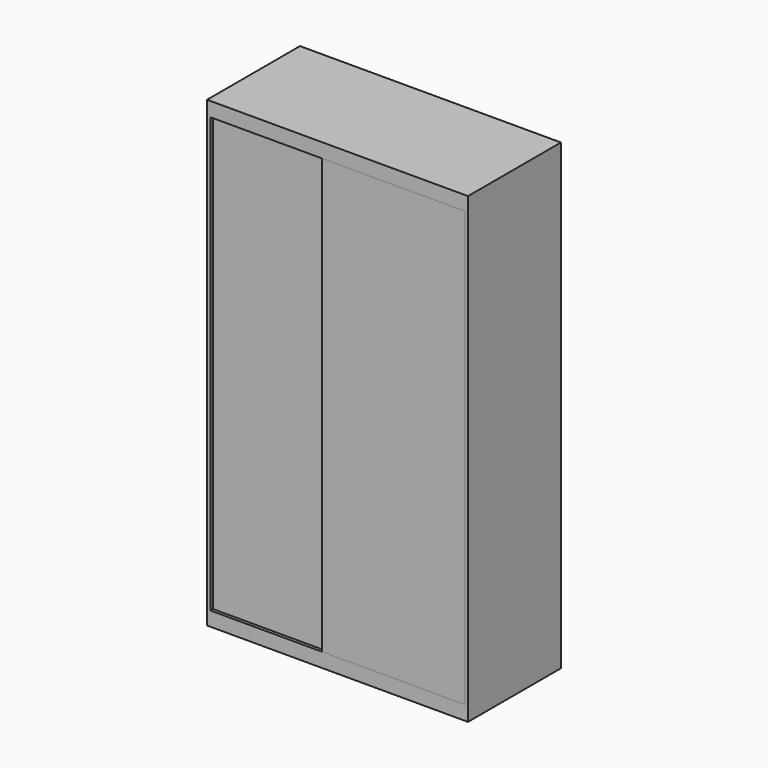
from build123d import *

# Parameters (mm, degrees)
F1_DEPTH = 2590
F2_W     = 1424
F2_H     = 2430
F3_DEPTH = 36
F4_W     = 1424
F4_H     = 450
F4_W_2   = 682
F5_DEPTH = 606
F6_W     = 18
F6_H     = 2430
F7_DEPTH = 800
F8_W     = 18
F8_H     = 2444.882574
F9_DEPTH = 800


with BuildPart() as f1:
    # F0 (on Top) → F1 (new body)
    with BuildSketch(Plane.XY):
        Polygon((-1460, 0), (0, 0), (0, 650), (-1460, 650), (-1460, 430), (-1460, 325), align=None)
    extrude(amount=F1_DEPTH)

    # F2 (on face) → F3 (cut)
    with BuildSketch(Plane.XZ):
        with Locations((-730, 1295)):
            Rectangle(F2_W, F2_H)
    extrude(amount=-F3_DEPTH, mode=Mode.SUBTRACT)

    # F4 (on face) → F5 (cut)
    with BuildSketch(Plane.XZ.offset(-36)):
        with Locations((-730, 2285)):
            Rectangle(F4_W, F4_H)
        with Locations((-359, 773)):
            Rectangle(F4_W_2, F4_H)
        Polygon((-18, 2042), (-1442, 2042), (-1442, 548), (-718, 548), (-718, 1016), (-18, 1016), align=None)
        Polygon((-18, 530), (-1442, 530), (-1442, 104.263887), (-1442, 80), (-18, 80), align=None)
    extrude(amount=-F5_DEPTH, mode=Mode.SUBTRACT)


with BuildPart() as f7:
    # F6 (on face) → F7 (new body)
    with BuildSketch(Plane(origin=(-18, 0, 0), x_dir=(0, -1, 0), z_dir=(-1, 0, 0))):
        with Locations((-9, 1295)):
            Rectangle(F6_W, F6_H)
    extrude(amount=F7_DEPTH)


with BuildPart() as f9:
    # F8 (on face) → F9 (new body)
    with BuildSketch(Plane.YZ.offset(-1442)):
        with Locations((27, 1287.558713)):
            Rectangle(F8_W, F8_H)
    extrude(amount=F9_DEPTH)


solid = Compound([f1.part, f7.part, f9.part])
